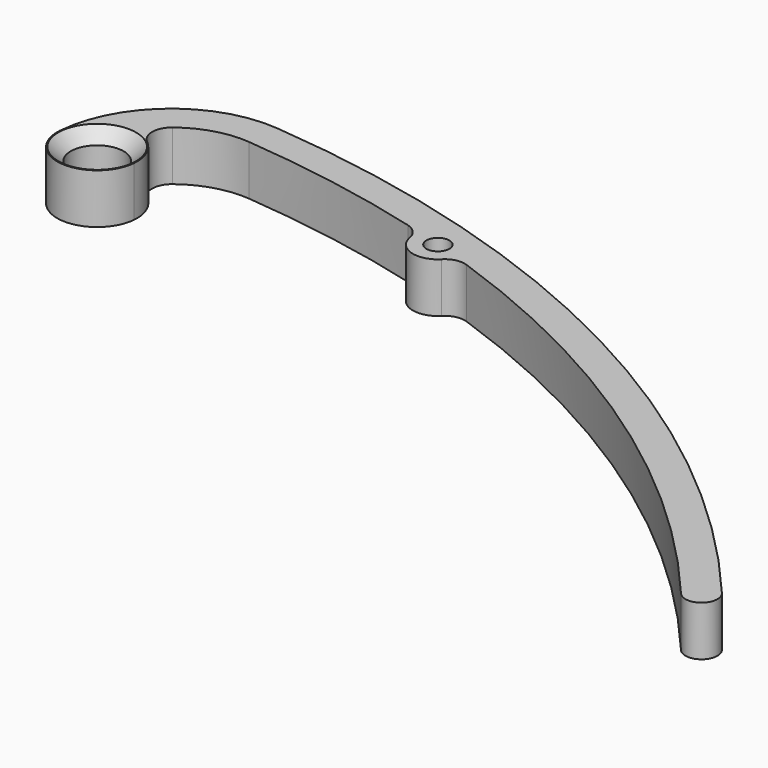
from build123d import *

# Parameters (mm, degrees)
PAD_DEPTH               = 5
SKETCH002_R             = 1.15
POCKET_DEPTH            = 5.001
POCKET_DEPTH_BACK       = 0.001
BODY001_PLACEMENT_ANGLE = 5


with BuildPart() as part:
    # Sketch → Pad (new body)
    with BuildSketch(Plane.XY):
        with BuildLine():
            ThreePointArc((-4, 0), (0, -4), (4, 0))
            ThreePointArc((4, 0), (3.532704, 1.876167), (2.239999, 3.313971))
            ThreePointArc((1.995291, 6.433002), (1.366125, 4.814525), (2.239999, 3.313971))
            ThreePointArc((8, 8.800007), (4.772802, 8.186896), (1.995291, 6.433002))
            ThreePointArc((26.730076, 7.183219), (17.399864, 8.39506), (8, 8.800007))
            ThreePointArc((28.315082, 5.745575), (27.73102, 6.694204), (26.730076, 7.183219))
            ThreePointArc((28.315082, 5.745575), (30.204969, 3.966171), (32.655215, 4.823051))
            ThreePointArc((34.687932, 5.491725), (33.574624, 5.452108), (32.655215, 4.823051))
            ThreePointArc((85.286771, -23.213222), (61.932163, -5.432587), (34.687932, 5.491725))
            ThreePointArc((85.286771, -23.213222), (87.549513, -23.213222), (87.549513, -20.95048))
            ThreePointArc((87.549513, -20.95048), (51.051886, 3.436454), (8, 12.000007))
            ThreePointArc((8, 12.000007), (-0.485282, 8.485284), (-4, 0))
        make_face()
    extrude(amount=-PAD_DEPTH)

    # Sketch002 → Pocket (cut, two sides)
    with BuildSketch(Plane.XY) as pocket_sk:
        with Locations((30.724748, 6.411535)):
            Circle(SKETCH002_R)
    extrude(amount=-POCKET_DEPTH, mode=Mode.SUBTRACT)
    extrude(pocket_sk.sketch, amount=POCKET_DEPTH_BACK, mode=Mode.SUBTRACT)

    # Sketch003 → Groove (revolve, cut)
    with BuildSketch(Plane.XZ):
        Polygon((0, 0), (3.9, 0), (2.65, -1.25), (2.65, -3.75), (3.9, -5), (0, -5), align=None)
    revolve(axis=Axis((0, 0, 0), (0, 0, 1)), mode=Mode.SUBTRACT)


with BuildPart() as part_1:
    # Body001 placement: moved
    add(part.part.moved(Location((0, 0, -6))).rotate(Axis((0, 0, -6), (0, 0, -1)), BODY001_PLACEMENT_ANGLE))


solid = part_1.part
